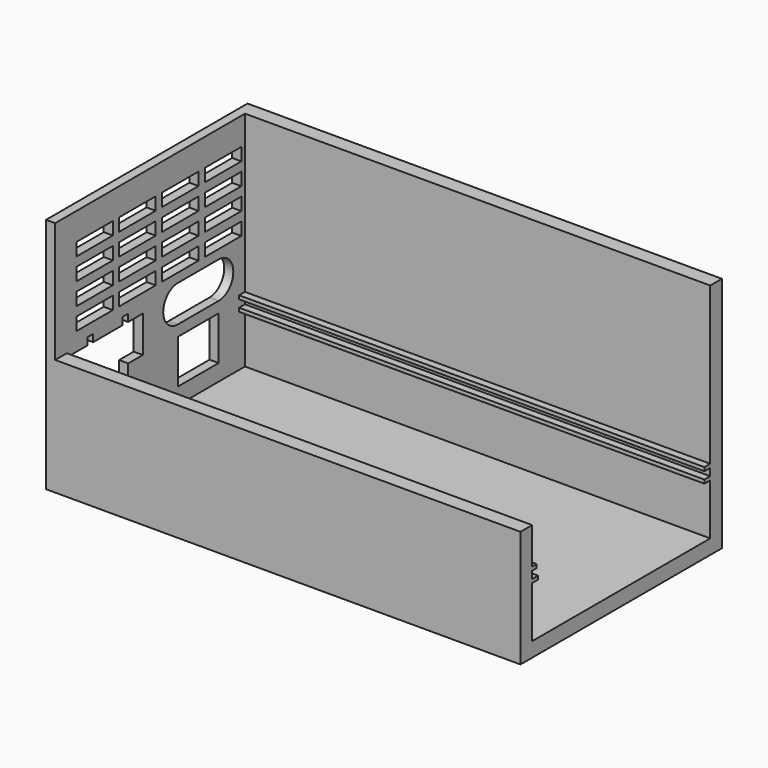
from build123d import *

# Parameters (mm, degrees)
F1_DEPTH = 130
F2_W     = 69
F2_H     = 65
F2_W_2   = 14
F2_H_2   = 12
F2_W_3   = 12.5
F2_H_3   = 3.5
F3_DEPTH = 2.5


with BuildPart() as f1:
    # F0 (on Right) → F1 (new body)
    with BuildSketch(Plane.YZ):
        Polygon((0, 32), (0, 0), (69, 0), (69, 65), (65, 65), (65, 22), (63, 22), (63, 21), (65, 21), (65, 19), (63, 19), (63, 18), (65, 18), (65, 4), (4, 4), (4, 18), (6, 18), (6, 19), (4, 19), (4, 21), (5.5, 21), (5.5, 22), (4, 22), (4, 32), align=None)
    extrude(amount=F1_DEPTH)

    # F2 (on face) → F3 (join)
    with BuildSketch(Plane(origin=(0, 0, 0), x_dir=(0, -1, 0), z_dir=(-1, 0, 0))):
        with Locations((-34.5, 32.5)):
            Rectangle(F2_W, F2_H)
        with Locations((-49, 14.5)):
            Rectangle(F2_W_2, F2_H_2, mode=Mode.SUBTRACT)
        with BuildLine():
            Line((-42, 23.5), (-56, 23.5))
            ThreePointArc((-56, 23.5), (-61, 28.5), (-56, 33.5))
            Line((-56, 33.5), (-42, 33.5))
            ThreePointArc((-42, 33.5), (-37, 28.5), (-42, 23.5))
        make_face(mode=Mode.SUBTRACT)
        Polygon((-11, 31), (-6, 31), (-6, 21), (-15, 21), (-15, 8), (-25, 8), (-25, 21), (-30, 21), (-30, 31), (-25, 31), (-25, 33), (-23, 33), (-23, 31), (-13, 31), (-13, 33), (-11, 33), align=None, mode=Mode.SUBTRACT)
        with Locations((-57.5, 37.75)):
            Rectangle(F2_W_3, F2_H_3, mode=Mode.SUBTRACT)
        with Locations((-57.5, 43.75)):
            Rectangle(F2_W_3, F2_H_3, mode=Mode.SUBTRACT)
        with Locations((-42.833333, 37.75)):
            Rectangle(F2_W_3, F2_H_3, mode=Mode.SUBTRACT)
        with Locations((-42.833333, 43.75)):
            Rectangle(F2_W_3, F2_H_3, mode=Mode.SUBTRACT)
        with Locations((-57.5, 49.75)):
            Rectangle(F2_W_3, F2_H_3, mode=Mode.SUBTRACT)
        with Locations((-57.5, 55.75)):
            Rectangle(F2_W_3, F2_H_3, mode=Mode.SUBTRACT)
        with Locations((-42.833333, 49.75)):
            Rectangle(F2_W_3, F2_H_3, mode=Mode.SUBTRACT)
        with Locations((-42.833333, 55.75)):
            Rectangle(F2_W_3, F2_H_3, mode=Mode.SUBTRACT)
        with Locations((-28.166667, 37.75)):
            Rectangle(F2_W_3, F2_H_3, mode=Mode.SUBTRACT)
        with Locations((-28.166667, 43.75)):
            Rectangle(F2_W_3, F2_H_3, mode=Mode.SUBTRACT)
        with Locations((-13.5, 37.75)):
            Rectangle(F2_W_3, F2_H_3, mode=Mode.SUBTRACT)
        with Locations((-13.5, 43.75)):
            Rectangle(F2_W_3, F2_H_3, mode=Mode.SUBTRACT)
        with Locations((-28.166667, 49.75)):
            Rectangle(F2_W_3, F2_H_3, mode=Mode.SUBTRACT)
        with Locations((-28.166667, 55.75)):
            Rectangle(F2_W_3, F2_H_3, mode=Mode.SUBTRACT)
        with Locations((-13.5, 49.75)):
            Rectangle(F2_W_3, F2_H_3, mode=Mode.SUBTRACT)
        with Locations((-13.5, 55.75)):
            Rectangle(F2_W_3, F2_H_3, mode=Mode.SUBTRACT)
    extrude(amount=-F3_DEPTH)


solid = f1.part
